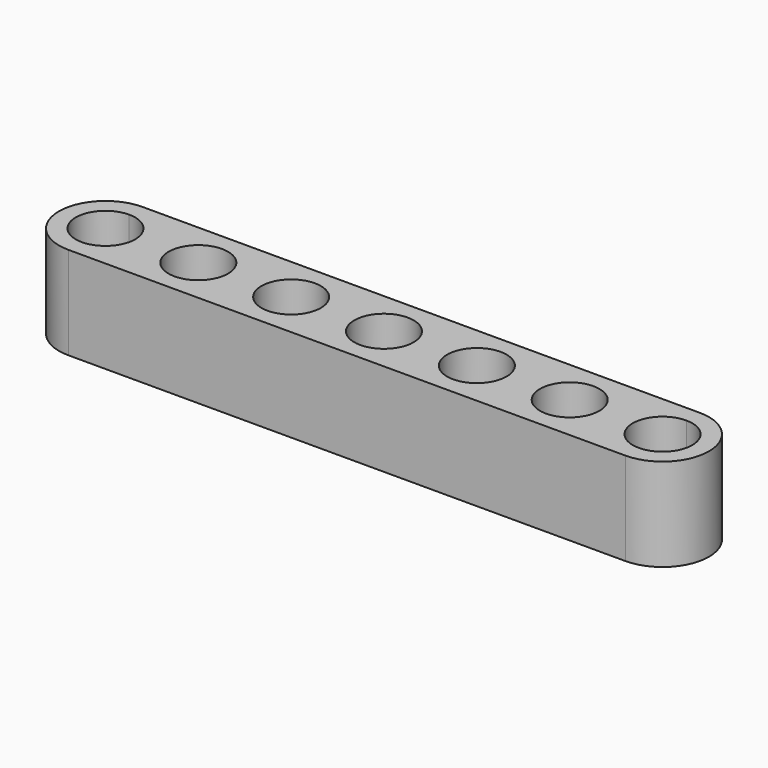
from build123d import *

# Parameters (mm, degrees)
F0_R     = 2.54
F1_DEPTH = 7.9375


with BuildPart() as f1:
    # F0 (on Top) → F1 (new body)
    with BuildSketch(Plane.XY):
        with BuildLine():
            Line((47.625, 0), (0, 0))
            Line((0, 0), (0, -1.42875))
            ThreePointArc((0, -1.42875), (1.796051, -2.172699), (2.54, -3.96875))
            ThreePointArc((2.54, -3.96875), (1.796051, -5.764801), (0, -6.50875))
            Line((0, -6.50875), (0, -7.9375))
            Line((0, -7.9375), (47.625, -7.9375))
            Line((47.625, -7.9375), (47.625, -6.50875))
            ThreePointArc((47.625, -6.50875), (45.085, -3.96875), (47.625, -1.42875))
            Line((47.625, -1.42875), (47.625, 0))
        make_face()
        with Locations((7.9375, -3.96875)):
            Circle(F0_R, mode=Mode.SUBTRACT)
        with Locations((15.875, -3.96875)):
            Circle(F0_R, mode=Mode.SUBTRACT)
        with Locations((23.8125, -3.96875)):
            Circle(F0_R, mode=Mode.SUBTRACT)
        with Locations((31.75, -3.96875)):
            Circle(F0_R, mode=Mode.SUBTRACT)
        with Locations((39.6875, -3.96875)):
            Circle(F0_R, mode=Mode.SUBTRACT)
        with BuildLine():
            Line((0, -1.42875), (0, 0))
            ThreePointArc((0, 0), (-3.96875, -3.96875), (0, -7.9375))
            Line((0, -7.9375), (0, -6.50875))
            ThreePointArc((0, -6.50875), (-2.54, -3.96875), (0, -1.42875))
        make_face()
        with BuildLine():
            ThreePointArc((47.625, -7.9375), (51.59375, -3.96875), (47.625, 0))
            Line((47.625, 0), (47.625, -1.42875))
            ThreePointArc((47.625, -1.42875), (49.421051, -2.172699), (50.165, -3.96875))
            ThreePointArc((50.165, -3.96875), (49.421051, -5.764801), (47.625, -6.50875))
            Line((47.625, -6.50875), (47.625, -7.9375))
        make_face()
    extrude(amount=F1_DEPTH)


solid = f1.part
